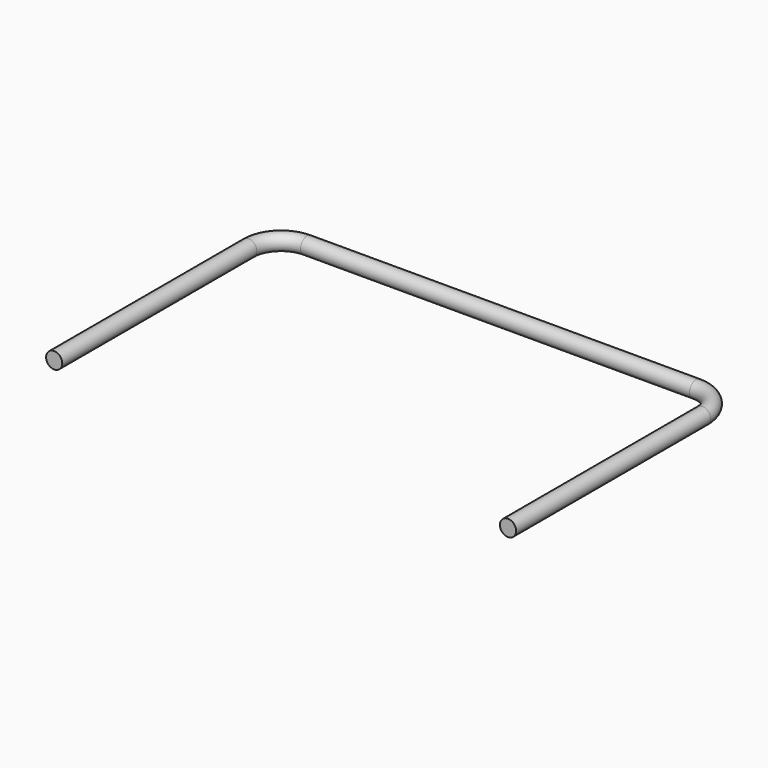
from build123d import *

# Parameters (mm, degrees)
TORUS_R           = 1
TORUS_ANGLE       = 90
CYLINDER002_R     = 1
CYLINDER002_DEPTH = 30
CYLINDER004_R     = 1
CYLINDER004_DEPTH = 48


with BuildPart() as torus:
    # Torus → Torus (revolve)
    with BuildSketch(Plane(origin=(24, 120, 0), x_dir=(1, 0, 0), z_dir=(0, -1, 0))):
        with Locations((4, 0)):
            Circle(TORUS_R)
    revolve(axis=Axis((24, 120, 0), (0, 0, 1)), revolution_arc=TORUS_ANGLE)


with BuildPart() as collector002:
    # Cylinder002 → Cylinder002 (new body)
    with BuildSketch(Plane(origin=(-28, 120, 0), x_dir=(1, 0, 0), z_dir=(0, -1, 0))):
        Circle(CYLINDER002_R)
    extrude(amount=CYLINDER002_DEPTH)


with BuildPart() as obj1:
    # Part__Mirroring002: instance of Collector002
    add(collector002.part.mirror(Plane(origin=(0, 0, 0), x_dir=(0, -1, 0), z_dir=(1, 0, 0))))


with BuildPart() as cylinder:
    # Cylinder004 → Cylinder004 (new body)
    with BuildSketch(Plane(origin=(-24, 124, 0), x_dir=(0, 0, -1), z_dir=(1, 0, 0))):
        Circle(CYLINDER004_R)
    extrude(amount=CYLINDER004_DEPTH)


with BuildPart() as obj2:
    # Part__Mirroring003: instance of Torus
    add(torus.part.mirror(Plane(origin=(0, 0, 0), x_dir=(0, -1, 0), z_dir=(1, 0, 0))))

    # Fusion: union Torus, Collector002, obj1, Cylinder
    add(torus.part)
    add(collector002.part)
    add(obj1.part)
    add(cylinder.part)


with BuildPart() as obj2_1:
    # Fusion placement: moved
    add(obj2.part.moved(Location((0, 0, -20))))


solid = obj2_1.part
